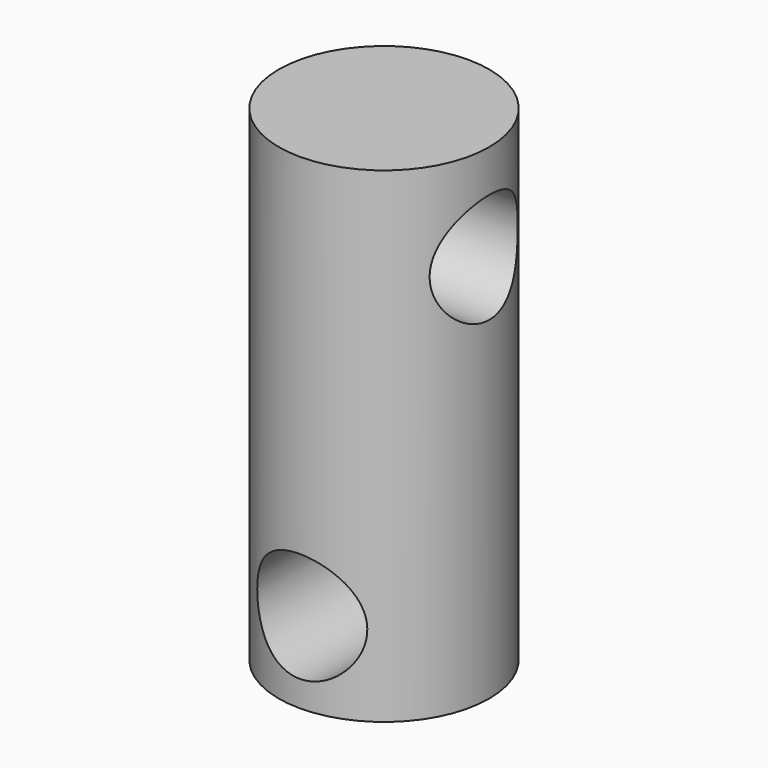
from build123d import *

# Parameters (mm, degrees)
F0_W     = 20
F0_H     = 20
F1_DEPTH = 30
F3_R     = 3.4
F4_DEPTH = 25
F2_R     = 3.4
F5_DEPTH = 25
F6_W     = 20
F6_H     = 20
F6_R     = 6.5
F7_DEPTH = 30


with BuildPart() as f1:
    # F0 (on Top) → F1 (new body)
    with BuildSketch(Plane.XY):
        with Locations((3.538307, -2.90917)):
            Rectangle(F0_W, F0_H)
    extrude(amount=F1_DEPTH)

    # F3 (on face) → F4 (cut)
    with BuildSketch(Plane.YZ.offset(13.538307)):
        with Locations((-2.90917, 24)):
            Circle(F3_R)
    extrude(amount=-F4_DEPTH, mode=Mode.SUBTRACT)

    # F2 (on face) → F5 (cut)
    with BuildSketch(Plane(origin=(0, 7.09083, 0), x_dir=(-1, 0, 0), z_dir=(0, 1, 0))):
        with Locations((-3.538307, 5)):
            Circle(F2_R)
    extrude(amount=-F5_DEPTH, mode=Mode.SUBTRACT)

    # F6 (on face) → F7 (cut)
    with BuildSketch(Plane(origin=(0, 0, 0), x_dir=(1, 0, 0), z_dir=(0, 0, -1))):
        with Locations((3.538307, 2.90917)):
            Rectangle(F6_W, F6_H)
        with Locations((3.538307, 2.90917)):
            Circle(F6_R, mode=Mode.SUBTRACT)
    extrude(amount=-F7_DEPTH, mode=Mode.SUBTRACT)


solid = f1.part
